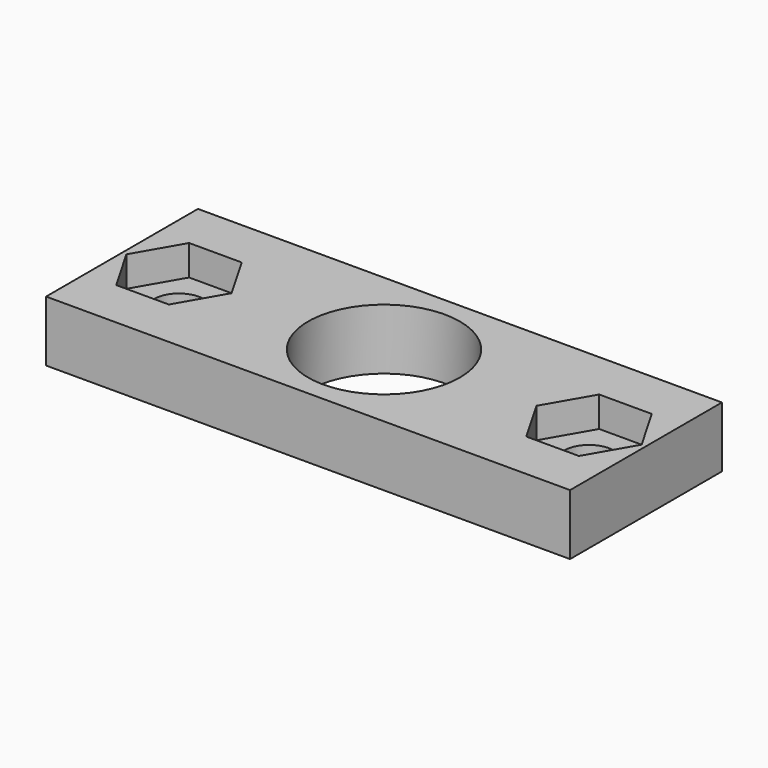
from build123d import *

# Parameters (mm, degrees)
F0_W     = 34.5
F0_H     = 12.5
F0_R     = 5
F0_R_2   = 1.65
F1_DEPTH = 2
F2_DEPTH = 2


with BuildPart() as f1:
    # F0 (on Top) → F1 (new body)
    with BuildSketch(Plane.XY):
        Rectangle(F0_W, F0_H)
        Polygon((-16.9641016151, 0), (-15.2320508076, 3), (-11.7679491924, 3), (-10.0358983849, 0), (-11.7679491924, -3), (-15.2320508076, -3), align=None, mode=Mode.SUBTRACT)
        Circle(F0_R, mode=Mode.SUBTRACT)
        Polygon((10.0358983849, 0), (11.7679491924, 3), (15.2320508076, 3), (16.9641016151, 0), (15.2320508076, -3), (11.7679491924, -3), align=None, mode=Mode.SUBTRACT)
        Polygon((-11.7679491924, 3), (-15.2320508076, 3), (-16.9641016151, 0), (-15.2320508076, -3), (-11.7679491924, -3), (-10.0358983849, 0), align=None)
        with Locations((-13.5, 0)):
            Circle(F0_R_2, mode=Mode.SUBTRACT)
        Polygon((15.2320508076, 3), (11.7679491924, 3), (10.0358983849, 0), (11.7679491924, -3), (15.2320508076, -3), (16.9641016151, 0), align=None)
        with Locations((13.5, 0)):
            Circle(F0_R_2, mode=Mode.SUBTRACT)
    extrude(amount=-F1_DEPTH)

    # F0 (on Top) → F2 (join)
    with BuildSketch(Plane.XY):
        Rectangle(F0_W, F0_H)
        Polygon((-16.9641016151, 0), (-15.2320508076, 3), (-11.7679491924, 3), (-10.0358983849, 0), (-11.7679491924, -3), (-15.2320508076, -3), align=None, mode=Mode.SUBTRACT)
        Circle(F0_R, mode=Mode.SUBTRACT)
        Polygon((10.0358983849, 0), (11.7679491924, 3), (15.2320508076, 3), (16.9641016151, 0), (15.2320508076, -3), (11.7679491924, -3), align=None, mode=Mode.SUBTRACT)
    extrude(amount=F2_DEPTH)


solid = f1.part
